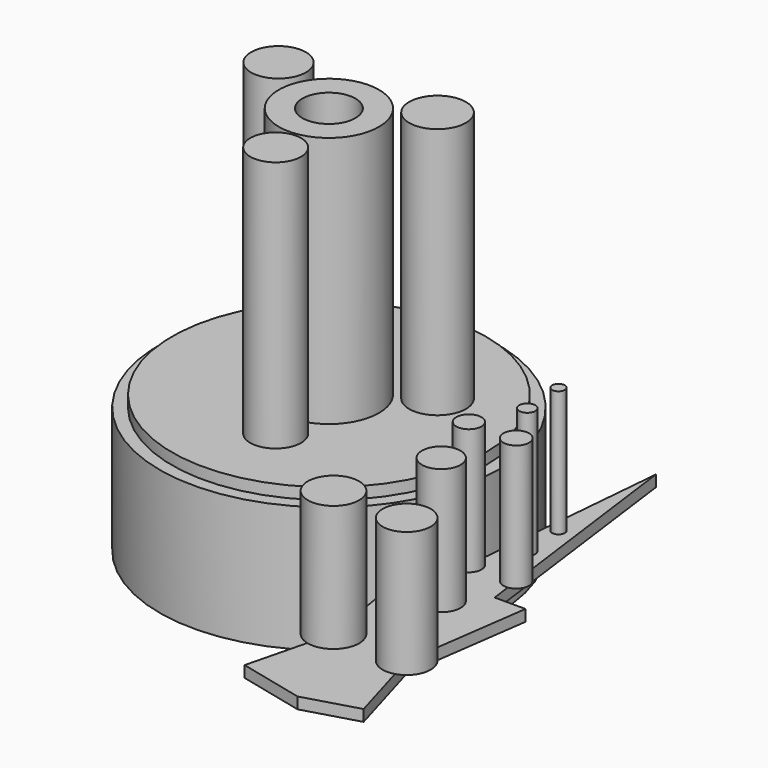
from build123d import *

# Parameters (mm, degrees)
F0_R     = 31.650398
F0_R_2   = 4.017403
F1_DEPTH = 2.286
F2_R     = 10.109613
F2_R_2   = 5.348797
F2_R_3   = 5.537549
F2_R_4   = 5.725598
F2_R_5   = 5.119282
F3_DEPTH = 50.8
F4_R     = 34.138062
F4_R_2   = 2.318226
F5_DEPTH = 25.4
F7_DEPTH = 2.286
F8_R     = 1.610047
F8_R_2   = 2.545991
F8_R_3   = 2.579251
F8_R_4   = 1.282134
F8_R_5   = 3.88321
F8_R_6   = 5.183719
F8_R_7   = 4.852996
F9_DEPTH = 25.4


with BuildPart() as f1:
    # F0 (on Top) → F1 (new body)
    with BuildSketch(Plane.XY):
        with Locations((-30.492701, 37.782498)):
            Circle(F0_R)
        with Locations((-30.492701, 37.782498)):
            Circle(F0_R_2, mode=Mode.SUBTRACT)
    extrude(amount=F1_DEPTH)

    # F2 (on face) → F3 (join)
    with BuildSketch(Plane.XY.offset(2.286)):
        with Locations((-30.492701, 37.782498)):
            Circle(F2_R)
        with Locations((-30.492701, 37.782498)):
            Circle(F2_R_2, mode=Mode.SUBTRACT)
        with Locations((-46.4947, 45.072302)):
            Circle(F2_R_3)
        with Locations((-16.2687, 47.3837)):
            Circle(F2_R_4)
        with Locations((-28.7147, 22.136101)):
            Circle(F2_R_5)
    extrude(amount=F3_DEPTH)

    # F4 (on face) → F5 (join)
    with BuildSketch(Plane(origin=(0, 0, 0), x_dir=(1, 0, 0), z_dir=(0, 0, -1))):
        with Locations((-30.492701, -37.782498)):
            Circle(F4_R)
        with Locations((-30.492701, -37.782498)):
            Circle(F4_R_2, mode=Mode.SUBTRACT)
    extrude(amount=F5_DEPTH)


with BuildPart() as f7:
    # F6 (on Top) → F7 (new body)
    with BuildSketch(Plane.XY):
        Polygon((33.159703, 0), (26.758902, 48.6283), (22.491701, 0), align=None)
        Polygon((33.159703, 0), (22.491701, 0), (16.802099, 0), (21.069299, -25.514301), (16.802099, -42.5831), (29.990306, -45.737416), (40.805101, -42.5831), (35.826702, -25.514301), (39.3827, 0), align=None)
    extrude(amount=F7_DEPTH)

    # F8 (on face) → F9 (join)
    with BuildSketch(Plane.XY.offset(2.286)):
        with Locations((27.292302, 15.557501)):
            Circle(F8_R)
        with Locations((23.032657, 6.164642)):
            Circle(F8_R_2)
        with Locations((32.301862, 6.517205)):
            Circle(F8_R_3)
        with Locations((26.758902, 24.091899)):
            Circle(F8_R_4)
        with Locations((27.292302, -6.1341)):
            Circle(F8_R_5)
        with Locations((21.069299, -25.514301)):
            Circle(F8_R_6)
        with Locations((35.826702, -25.514301)):
            Circle(F8_R_7)
    extrude(amount=F9_DEPTH)


solid = Compound([f1.part, f7.part])
